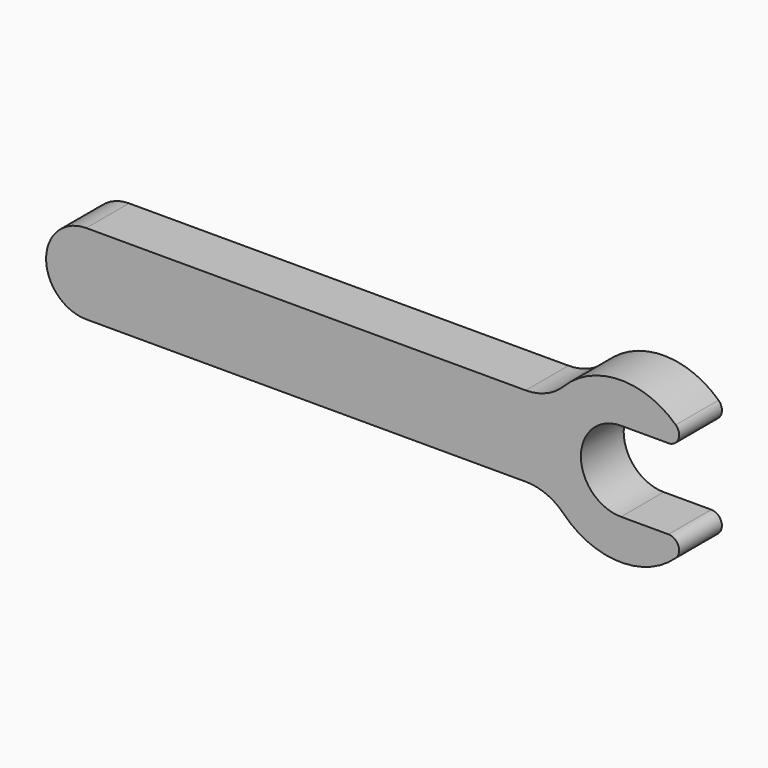
from build123d import *

# Parameters (mm, degrees)
F1_DEPTH = 6.35


with BuildPart() as f1:
    # F0 (on Front) → F1 (new body)
    with BuildSketch(Plane.XZ):
        with BuildLine():
            Line((52.175445, 4.7752), (0, 4.7752))
            ThreePointArc((0, 4.7752), (-4.7752, 0), (0, -4.7752))
            Line((0, -4.7752), (52.175445, -4.7752))
            ThreePointArc((52.175445, -4.7752), (54.631508, -5.269412), (56.705267, -6.67512))
            ThreePointArc((56.705267, -6.67512), (63.295562, -9.522806), (70.001999, -6.960577))
            ThreePointArc((70.001999, -6.960577), (70.316497, -5.566537), (69.135066, -4.7625))
            Line((69.135066, -4.7625), (63.5, -4.7625))
            ThreePointArc((63.5, -4.7625), (58.7375, 0), (63.5, 4.7625))
            Line((63.5, 4.7625), (69.135066, 4.7625))
            ThreePointArc((69.135066, 4.7625), (70.316497, 5.566537), (70.001999, 6.960577))
            ThreePointArc((70.001999, 6.960577), (63.295562, 9.522806), (56.705267, 6.67512))
            ThreePointArc((56.705267, 6.67512), (54.631508, 5.269412), (52.175445, 4.7752))
        make_face()
    extrude(amount=F1_DEPTH)


solid = f1.part
